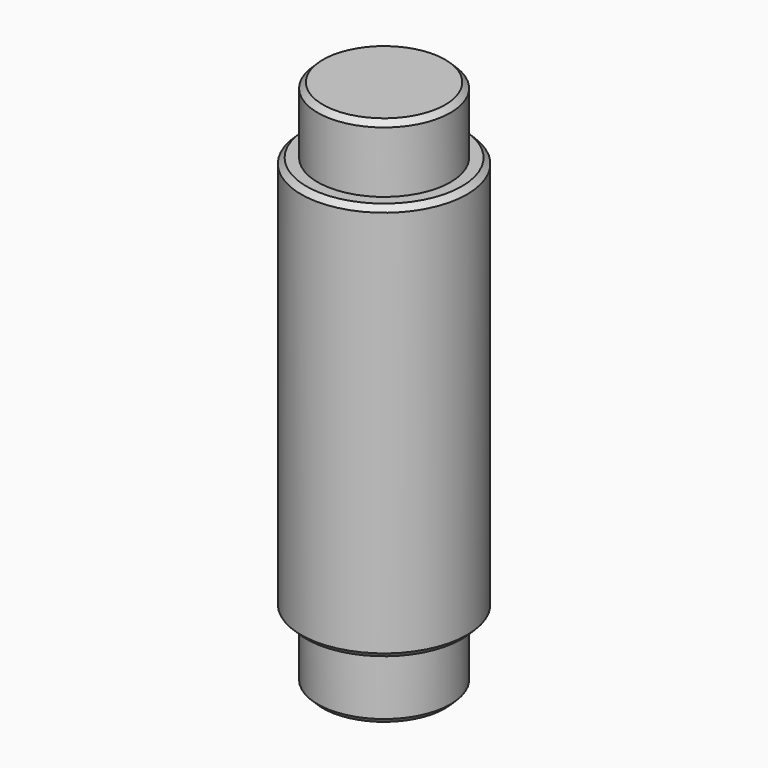
from build123d import *

# Parameters (mm, degrees)
F0_R      = 3.175
F1_DEPTH  = 3.175
F1_FACE_R = 3.175
F2_DEPTH  = 22.225
F0_R_2    = 3.96875
F3_DEPTH  = 19.05
F4_SIZE   = 0.254
F5_SIZE   = 0.254
F6_SIZE   = 0.254
F7_SIZE   = 0.254


with BuildPart() as f1:
    # F0 (on Top) → F1 (new body)
    with BuildSketch(Plane.XY):
        Circle(F0_R)
    extrude(amount=F1_DEPTH)

    # F1_face (on face) → F2 (join)
    with BuildSketch(Plane(origin=(0, 0, 0), x_dir=(1, 0, 0), z_dir=(0, 0, -1))):
        Circle(F1_FACE_R)
    extrude(amount=F2_DEPTH)

    # F0 (on Top) → F3 (join)
    with BuildSketch(Plane.XY):
        Circle(F0_R_2)
        Circle(F0_R, mode=Mode.SUBTRACT)
    extrude(amount=-F3_DEPTH)

    # F4
    f4_edges = [f1.edges().sort_by_distance(p)[0] for p in [
        (-3.175, 0, 3.175),
    ]]
    chamfer(f4_edges, length=F4_SIZE)

    # F5
    f5_edges = [f1.edges().sort_by_distance(p)[0] for p in [
        (-3.96875, 0, 0),
    ]]
    chamfer(f5_edges, length=F5_SIZE)

    # F6
    f6_edges = [f1.edges().sort_by_distance(p)[0] for p in [
        (-3.96875, 0, -19.05),
    ]]
    chamfer(f6_edges, length=F6_SIZE)

    # F7
    f7_edges = [f1.edges().sort_by_distance(p)[0] for p in [
        (-3.175, 0, -22.225),
    ]]
    chamfer(f7_edges, length=F7_SIZE)


solid = f1.part
